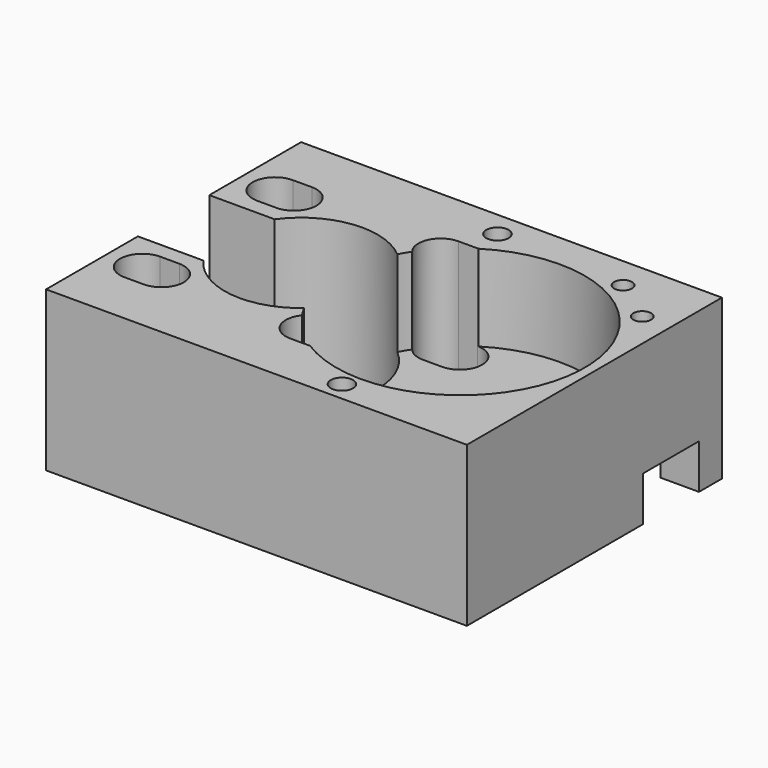
from build123d import *

# Parameters (mm, degrees)
BOX043_W          = 20
BOX043_H          = 14
BOX043_DEPTH      = 30
CYLINDER032_R     = 1.75
CYLINDER032_DEPTH = 200
CYLINDER031_R     = 1.75
CYLINDER031_DEPTH = 200
CYLINDER072_R     = 1.4
CYLINDER072_DEPTH = 50
CYLINDER071_R     = 1.4
CYLINDER071_DEPTH = 50
BOX042_W          = 9
BOX042_H          = 5
BOX042_DEPTH      = 7
BOX040_W          = 50
BOX040_H          = 11
BOX040_DEPTH      = 7
CYLINDER019_R     = 4.5
CYLINDER019_DEPTH = 30
CYLINDER018_R     = 3.6
CYLINDER018_DEPTH = 30
CYLINDER016_R     = 19.5
CYLINDER016_DEPTH = 20
CYLINDER017_R     = 12
CYLINDER017_DEPTH = 33
BOX003_W          = 3
BOX003_H          = 7
BOX003_DEPTH      = 25
CYLINDER020_R     = 1.7
CYLINDER020_DEPTH = 25
CYLINDER012_R     = 3.5
CYLINDER012_DEPTH = 25
BOX002_W          = 3
BOX002_H          = 3.4
BOX002_DEPTH      = 15
CYLINDER021_R     = 3.5
CYLINDER021_DEPTH = 25
CYLINDER008_R     = 1.7
CYLINDER008_DEPTH = 25
BOX001_W          = 66
BOX001_H          = 50
BOX001_DEPTH      = 25


with BuildPart() as cube040:
    # Box043 → Box043 (new body)
    with BuildSketch(Plane(origin=(-21, -7, 29), x_dir=(1, 0, 0), z_dir=(0, 0, 1))):
        with Locations((10, 7)):
            Rectangle(BOX043_W, BOX043_H)
    extrude(amount=BOX043_DEPTH)


with BuildPart() as m3_studding003:
    # Cylinder032 → Cylinder032 (new body)
    with BuildSketch(Plane(origin=(24, -22, 0), x_dir=(1, 0, 0), z_dir=(0, 0, 1))):
        Circle(CYLINDER032_R)
    extrude(amount=CYLINDER032_DEPTH)


with BuildPart() as long_stack_studding_a:
    # Cylinder031 → Cylinder031 (new body)
    with BuildSketch(Plane(origin=(14, 21, 0), x_dir=(1, 0, 0), z_dir=(0, 0, 1))):
        Circle(CYLINDER031_R)
    extrude(amount=CYLINDER031_DEPTH)

    # Fusion046: union m3-studding003
    add(m3_studding003.part)


with BuildPart() as m3_studding013:
    # Cylinder072 → Cylinder072 (new body)
    with BuildSketch(Plane(origin=(41.5, 15, -6), x_dir=(1, 0, 0), z_dir=(0, 0, 1))):
        Circle(CYLINDER072_R)
    extrude(amount=CYLINDER072_DEPTH)


with BuildPart() as m3_tap001:
    # Cylinder071 → Cylinder071 (new body)
    with BuildSketch(Plane(origin=(34.5, 20, -6), x_dir=(1, 0, 0), z_dir=(0, 0, 1))):
        Circle(CYLINDER071_R)
    extrude(amount=CYLINDER071_DEPTH)

    # Fusion042: union m3-studding013
    add(m3_studding013.part)


with BuildPart() as m3_tap001_1:
    # Fusion042 placement: moved
    add(m3_tap001.part.moved(Location((0, 0, 10))))


with BuildPart() as cube039:
    # Box042 → Box042 (new body)
    with BuildSketch(Plane(origin=(31, 18.5, 26), x_dir=(1, 0, 0), z_dir=(0, 0, 1))):
        with Locations((4.5, 2.5)):
            Rectangle(BOX042_W, BOX042_H)
    extrude(amount=BOX042_DEPTH)


with BuildPart() as cube037:
    # Box040 → Box040 (new body)
    with BuildSketch(Plane(origin=(31, 9.5, 26), x_dir=(1, 0, 0), z_dir=(0, 0, 1))):
        with Locations((25, 5.5)):
            Rectangle(BOX040_W, BOX040_H)
    extrude(amount=BOX040_DEPTH)


with BuildPart() as f_9mm_bearing:
    # Cylinder019 → Cylinder019 (new body)
    with BuildSketch(Plane(origin=(25, 0, 32.5), x_dir=(1, 0, 0), z_dir=(0, 0, 1))):
        Circle(CYLINDER019_R)
    extrude(amount=CYLINDER019_DEPTH)


with BuildPart() as bearing_and_shaft_holes:
    # Cylinder018 → Cylinder018 (new body)
    with BuildSketch(Plane(origin=(25, 0, 24), x_dir=(1, 0, 0), z_dir=(0, 0, 1))):
        Circle(CYLINDER018_R)
    extrude(amount=CYLINDER018_DEPTH)

    # Fusion007: union 9mm-bearing
    add(f_9mm_bearing.part)


with BuildPart() as big_gear_hole:
    # Cylinder016 → Cylinder016 (new body)
    with BuildSketch(Plane(origin=(25, 0, 37.5), x_dir=(1, 0, 0), z_dir=(0, 0, 1))):
        Circle(CYLINDER016_R)
    extrude(amount=CYLINDER016_DEPTH)


with BuildPart() as gear_holes:
    # Cylinder017 → Cylinder017 (new body)
    with BuildSketch(Plane.XY.offset(25)):
        Circle(CYLINDER017_R)
    extrude(amount=CYLINDER017_DEPTH)

    # Fusion006: union big-gear-hole
    add(big_gear_hole.part)


with BuildPart() as cube003:
    # Box003 → Box003 (new body)
    with BuildSketch(Plane(origin=(13, 9.5, 35.5), x_dir=(1, 0, 0), z_dir=(0, 0, 1))):
        with Locations((1.5, 3.5)):
            Rectangle(BOX003_W, BOX003_H)
    extrude(amount=BOX003_DEPTH)


with BuildPart() as cylinder020:
    # Cylinder020 → Cylinder020 (new body)
    with BuildSketch(Plane(origin=(16, 13, 25), x_dir=(1, 0, 0), z_dir=(0, 0, 1))):
        Circle(CYLINDER020_R)
    extrude(amount=CYLINDER020_DEPTH)


with BuildPart() as cylinder012:
    # Cylinder012 → Cylinder012 (new body)
    with BuildSketch(Plane(origin=(13, 13, 35.5), x_dir=(1, 0, 0), z_dir=(0, 0, 1))):
        Circle(CYLINDER012_R)
    extrude(amount=CYLINDER012_DEPTH)


with BuildPart() as cube002:
    # Box002 → Box002 (new body)
    with BuildSketch(Plane(origin=(13, 11.3, 25), x_dir=(1, 0, 0), z_dir=(0, 0, 1))):
        with Locations((1.5, 1.7)):
            Rectangle(BOX002_W, BOX002_H)
    extrude(amount=BOX002_DEPTH)


with BuildPart() as cylinder021:
    # Cylinder021 → Cylinder021 (new body)
    with BuildSketch(Plane(origin=(16, 13, 35.5), x_dir=(1, 0, 0), z_dir=(0, 0, 1))):
        Circle(CYLINDER021_R)
    extrude(amount=CYLINDER021_DEPTH)


with BuildPart() as cylinder008:
    # Cylinder008 → Cylinder008 (new body)
    with BuildSketch(Plane(origin=(13, 13, 25), x_dir=(1, 0, 0), z_dir=(0, 0, 1))):
        Circle(CYLINDER008_R)
    extrude(amount=CYLINDER008_DEPTH)


with BuildPart() as m3_slot001:
    # Fusion002 base: copy of Cylinder008
    add(cylinder008.part)

    # Fusion002: union Cube003, Cylinder020, Cylinder012, Cube002, Cylinder021
    add(cube003.part)
    add(cylinder020.part)
    add(cylinder012.part)
    add(cube002.part)
    add(cylinder021.part)


with BuildPart() as m3_slot001_1:
    # Fusion002 placement: moved
    add(m3_slot001.part.moved(Location((-27.5, 0, 0))))


with BuildPart() as m3_slot002:
    # Fusion003 base: copy of Cylinder008
    add(cylinder008.part)

    # Fusion003: union Cube003, Cylinder020, Cylinder012, Cube002, Cylinder021
    add(cube003.part)
    add(cylinder020.part)
    add(cylinder012.part)
    add(cube002.part)
    add(cylinder021.part)


with BuildPart() as m3_slot002_1:
    # Fusion003 placement: moved
    add(m3_slot002.part.moved(Location((-27.5, -26, 0))))


with BuildPart() as m3_slot003:
    # Fusion004 base: copy of Cylinder008
    add(cylinder008.part)

    # Fusion004: union Cube003, Cylinder020, Cylinder012, Cube002, Cylinder021
    add(cube003.part)
    add(cylinder020.part)
    add(cylinder012.part)
    add(cube002.part)
    add(cylinder021.part)


with BuildPart() as m3_slot003_1:
    # Fusion004 placement: moved
    add(m3_slot003.part.moved(Location((-1.5, -26, 0))))


with BuildPart() as fusion008:
    # Fusion001 base: copy of Cylinder008
    add(cylinder008.part)

    # Fusion001: union Cube003, Cylinder020, Cylinder012, Cube002, Cylinder021
    add(cube003.part)
    add(cylinder020.part)
    add(cylinder012.part)
    add(cube002.part)
    add(cylinder021.part)


with BuildPart() as fusion008_1:
    # Fusion001 placement: moved
    add(fusion008.part.moved(Location((-1.5, 0, 0))))

    # Fusion005: union M3-slot001, M3-slot002, M3-slot003
    add(m3_slot001_1.part)
    add(m3_slot002_1.part)
    add(m3_slot003_1.part)


with BuildPart() as fusion008_2:
    # Fusion005 placement: moved
    add(fusion008_1.part.moved(Location((0, 0, -3))))

    # Fusion008: union bearing-and-shaft-holes, gear-holes
    add(bearing_and_shaft_holes.part)
    add(gear_holes.part)


with BuildPart() as gearbox:
    # Box001 → Box001 (new body)
    with BuildSketch(Plane(origin=(-20, -25, 26), x_dir=(1, 0, 0), z_dir=(0, 0, 1))):
        with Locations((33, 25)):
            Rectangle(BOX001_W, BOX001_H)
    extrude(amount=BOX001_DEPTH)

    # Cut: cut Fusion008
    add(fusion008_2.part, mode=Mode.SUBTRACT)

    # Cut023: cut Cube037
    add(cube037.part, mode=Mode.SUBTRACT)

    # Cut028: cut Cube039
    add(cube039.part, mode=Mode.SUBTRACT)

    # Cut030: cut M3-tap001
    add(m3_tap001_1.part, mode=Mode.SUBTRACT)

    # Cut034: cut long-stack-studding-a
    add(long_stack_studding_a.part, mode=Mode.SUBTRACT)

    # Cut041: cut Cube040
    add(cube040.part, mode=Mode.SUBTRACT)


solid = gearbox.part
